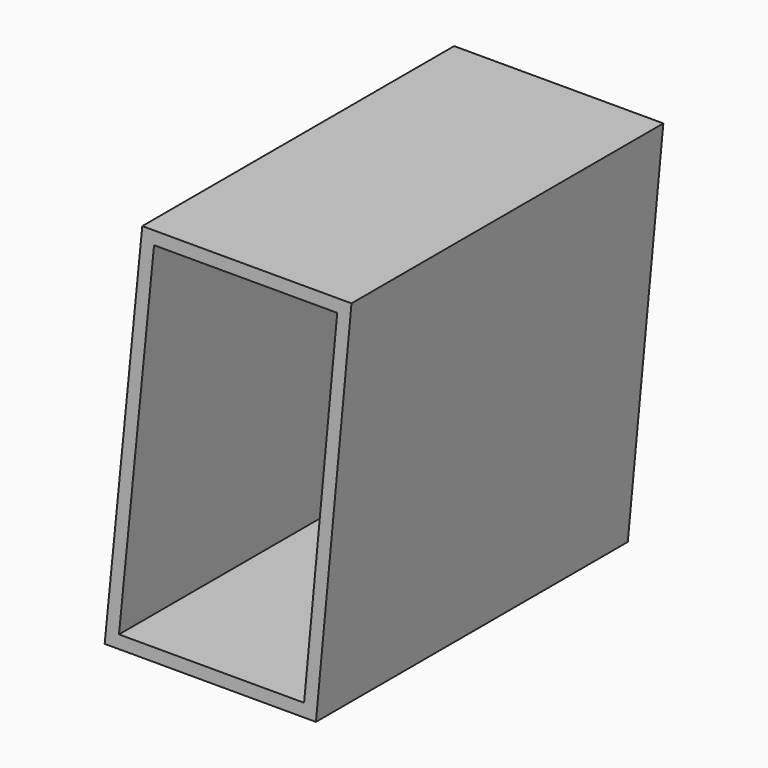
from build123d import *

# Parameters (mm, degrees)
F0_W     = 33.9496749554
F0_H     = 74.29
F1_DEPTH = 76.2
F2_T     = -2.54


with BuildPart() as f1:
    # F0 (on Front) → F1 (new body)
    with BuildSketch(Plane.XZ):
        Polygon((-17.5263221099, -9.0210835837), (-17.5263221099, 65.2689164163), (-24.8776297376, -9.0210835837), align=None)
        with Locations((-0.5514846322, 28.1239164163)):
            Rectangle(F0_W, F0_H)
        Polygon((23.3736778901, 65.2689164163), (16.4233528455, 65.2689164163), (16.4233528455, -9.0210835837), align=None)
    extrude(amount=F1_DEPTH)

    # F2
    f2_openings = [f1.faces().sort_by_distance(p)[0] for p in [
        (-0.657544, -76.2, 28.063518),
    ]]
    offset(amount=F2_T, openings=f2_openings)


solid = f1.part
